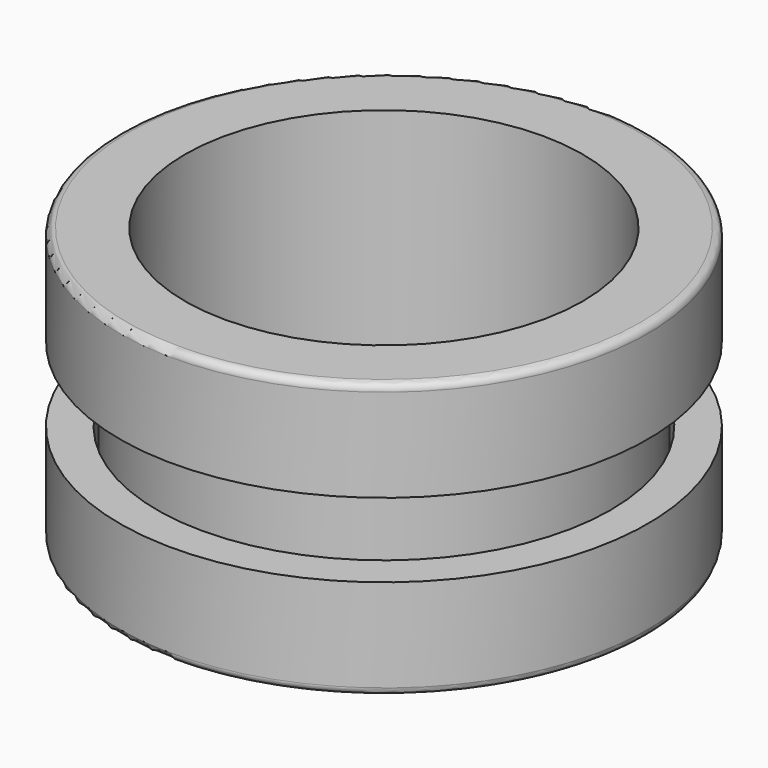
from build123d import *


with BuildPart() as f1:
    # F0 (on Front) → F1 (revolve)
    with BuildSketch(Plane.XZ):
        with BuildLine():
            Line((-35.5, 12.5), (-35.5, 0))
            Line((-35.5, 0), (-30, 0))
            Line((-30, 0), (-30, -23.5))
            Line((-30, -23.5), (-26.75, -23.5))
            Line((-26.75, -23.5), (-26.75, 13.5))
            Line((-26.75, 13.5), (-34.5, 13.5))
            ThreePointArc((-34.5, 13.5), (-35.207107, 13.207107), (-35.5, 12.5))
        make_face()
        with BuildLine():
            Line((-30.5, -23.5), (-30.5, -10))
            Line((-30.5, -10), (-35.5, -10))
            Line((-35.5, -10), (-35.5, -22.5))
            ThreePointArc((-35.5, -22.5), (-35.207107, -23.207107), (-34.5, -23.5))
            Line((-34.5, -23.5), (-30.5, -23.5))
        make_face()
    revolve(axis=Axis((0, 0, -0.243519), (0, 0, -1)))


solid = f1.part
